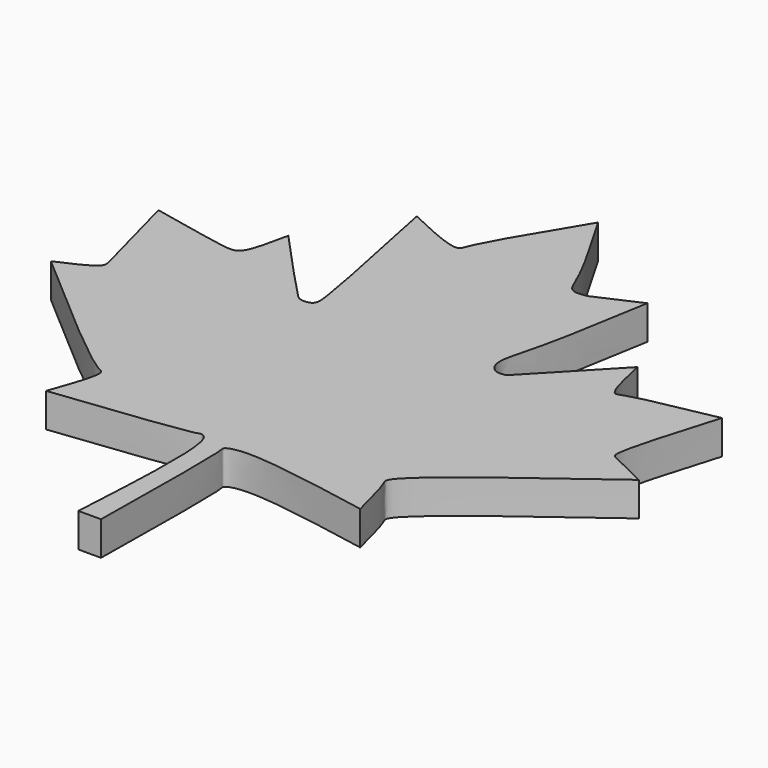
from build123d import *

# Parameters (mm, degrees)
F1_DEPTH = 2.9972
F2_SCALE = 2


with BuildPart() as f1:
    # F0 (on Top) → F1 (new body)
    with BuildSketch(Plane.XY):
        with BuildLine():
            add(Edge.make_bspline(
                [(1.8626e-06, 29.5847542584), (-2.0757245538, 26.1642020619), (-4.7877317058, 21.6951342953), (-5.0290437881, 20.0090175634), (-8.1248154468, 21.4649471039), (-10.328296572, 22.5012358278)],
                knots=[0, 0, 0, 0, 0.484611334, 0.633161188, 1, 1, 1, 1], degree=3))
            add(Edge.make_bspline(
                [(-10.328296572, 22.5012358278), (-9.1778666198, 16.9476591934), (-7.6792276315, 9.7131409572), (-7.596567515, 7.8315049862), (-8.9609061532, 7.650136782), (-9.757905792, 8.6764269491), (-11.831216715, 10.7467415664), (-14.1048527383, 13.2521715422), (-15.4297286645, 14.712116681)],
                knots=[0, 0, 0, 0, 0.3377128003, 0.4399308001, 0.530257534, 0.6293768723, 0.7840333041, 1, 1, 1, 1], degree=3))
            add(Edge.make_bspline(
                [(-15.4297286645, 14.712116681), (-15.7019884236, 13.3987359492), (-16.1110319061, 11.42551071), (-16.860807344, 10.5984587671), (-18.2362244184, 10.7070895058), (-22.0615501586, 11.5183620077), (-24.7972309589, 12.0985433459)],
                knots=[0, 0, 0, 0, 0.2866887731, 0.4307216554, 0.5928807262, 1, 1, 1, 1], degree=3))
            add(Edge.make_bspline(
                [(-24.7972309589, 12.0985433459), (-23.902213957, 8.7474473723), (-22.7157611071, 4.3051659854), (-22.4206886908, 3.0239393122), (-24.4605719231, 2.1238949638), (-25.8218236268, 1.52327877)],
                knots=[0, 0, 0, 0, 0.505363113, 0.6699196824, 1, 1, 1, 1], degree=3))
            add(Edge.make_bspline(
                [(-25.8218236268, 1.52327877), (-20.4428695743, -3.1627061709), (-13.8639756954, -8.8940430338), (-12.3534902749, -9.1746569156), (-13.3183272743, -11.8786936329), (-13.9986192808, -13.7852691114)],
                knots=[0, 0, 0, 0, 0.5693389861, 0.6963474189, 1, 1, 1, 1], degree=3))
            add(Edge.make_bspline(
                [(-13.9986192808, -13.7852691114), (-8.6076761786, -13.1697388181), (-2.2045770639, -12.4386419764), (-1.6447685876, -12.0689795714), (-0.2980547426, -12.6424348407), (-0.7256226833, -20.1869895207), (-1.0765119223, -26.3785272837)],
                knots=[0, 0, 0, 0, 0.4012183012, 0.4765475169, 0.5704218535, 1, 1, 1, 1], degree=3))
            add(Edge.make_bspline(
                [(-1.0765119223, -26.3785272837), (-0.4109808166, -26.3785272837), (0.2545502891, -26.3785272837), (0.9200813947, -26.3785272837)],
                knots=[0, 0, 0, 0, 1.996593317, 1.996593317, 1.996593317, 1.996593317], degree=3))
            add(Edge.make_bspline(
                [(0.9200813947, -26.3785272837), (1.0015269498, -20.4473186418), (1.0971602655, -13.4828974618), (0.7876323235, -12.7456455053), (2.907767063, -11.9653574753), (9.2264825904, -13.1455394915), (13.8979414478, -14.0180541202)],
                knots=[0, 0, 0, 0, 0.4083173028, 0.4794459011, 0.6151516799, 1, 1, 1, 1], degree=3))
            add(Edge.make_bspline(
                [(13.8979414478, -14.0180541202), (13.4973481264, -12.4204432582), (12.929413615, -10.1554570593), (12.0459108132, -9.0324645661), (19.7603037154, -3.361382511), (26.1769928038, 1.355718472)],
                knots=[0, 0, 0, 0, 0.2870859093, 0.4070112678, 1, 1, 1, 1], degree=3))
            add(Edge.make_bspline(
                [(26.1769928038, 1.355718472), (24.7992453695, 2.0043980696), (22.9127836217, 2.8925936975), (22.2381650565, 3.3964414785), (23.6972477301, 8.2254705669), (24.8792078346, 12.1373254806)],
                knots=[0, 0, 0, 0, 0.3396656034, 0.4650824614, 1, 1, 1, 1], degree=3))
            add(Edge.make_bspline(
                [(24.8792078346, 12.1373254806), (21.7670543406, 11.5478502972), (17.7037999482, 10.7782264233), (16.5415099946, 10.0285074778), (15.987528041, 12.6067751859), (15.5950468034, 14.433408156)],
                knots=[0, 0, 0, 0, 0.4882090656, 0.6374099588, 1, 1, 1, 1], degree=3))
            add(Edge.make_bspline(
                [(15.5950468034, 14.433408156), (13.4986229241, 12.2371548787), (11.4021990448, 10.0409016013), (9.3057751656, 7.844648324)],
                knots=[0, 0, 0, 0, 9.1086054838, 9.1086054838, 9.1086054838, 9.1086054838], degree=3))
            add(Edge.make_bspline(
                [(9.3057751656, 7.844648324), (8.997284628, 7.7899566738), (8.3415726505, 7.6737068519), (7.3162920318, 8.8744401557), (8.578092077, 12.5649983396), (9.5571776717, 18.5190232492), (10.1778833196, 22.293664515)],
                knots=[0, 0, 0, 0, 0.1337946081, 0.2843870925, 0.5463267198, 1, 1, 1, 1], degree=3))
            add(Edge.make_bspline(
                [(10.1778833196, 22.293664515), (8.8921425243, 21.7191843937), (7.6064017291, 21.1447042723), (6.3206609339, 20.570224151)],
                knots=[0, 0, 0, 0, 4.2247380062, 4.2247380062, 4.2247380062, 4.2247380062], degree=3))
            add(Edge.make_bspline(
                [(6.3206609339, 20.570224151), (5.8327104987, 20.4796799372), (4.7447474126, 20.2777972146), (4.0239125331, 22.7234317156), (1.6171270669, 26.8273328027), (1.8626e-06, 29.5847542584)],
                knots=[0, 0, 0, 0, 0.2106218054, 0.4696148069, 1, 1, 1, 1], degree=3))
        make_face()
    extrude(amount=F1_DEPTH)


with BuildPart() as f1_1:
    # F2: moved
    add(f1.part.scale(F2_SCALE))


solid = f1_1.part
